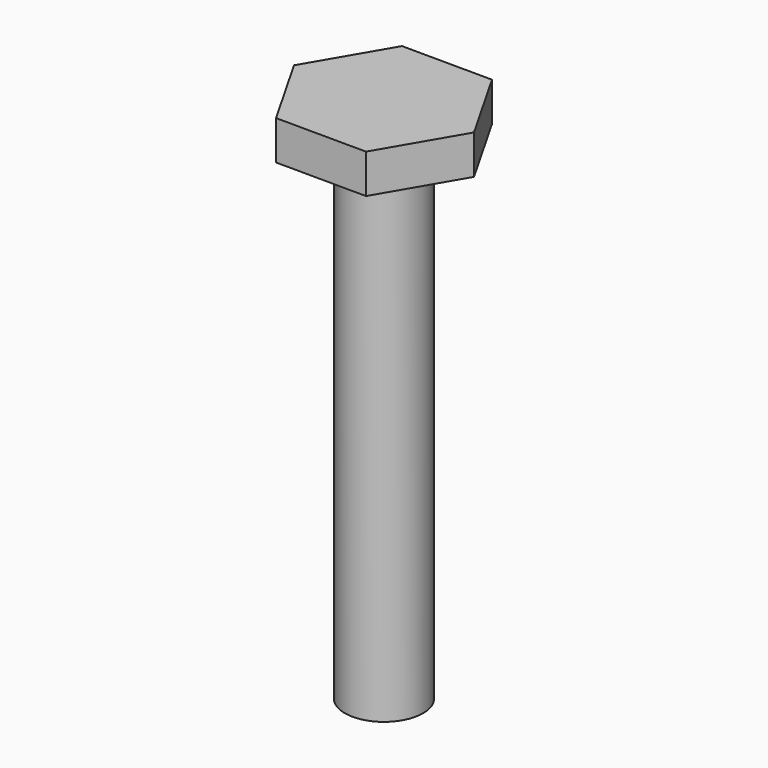
from build123d import *

# Parameters (mm, degrees)
F0_R     = 2.54
F1_DEPTH = 31.75
F3_DEPTH = 2.54


with BuildPart() as f1:
    # F0 (on Top) → F1 (new body)
    with BuildSketch(Plane.XY):
        Circle(F0_R)
    extrude(amount=F1_DEPTH)

    # F2 (on face) → F3 (join)
    with BuildSketch(Plane.XY.offset(31.75)):
        Polygon((5.865809, -0.028617), (2.957688, 5.065631), (-2.908121, 5.094248), (-5.865809, 0.028617), (-2.957688, -5.065631), (2.908121, -5.094248), align=None)
    extrude(amount=F3_DEPTH)


solid = f1.part
